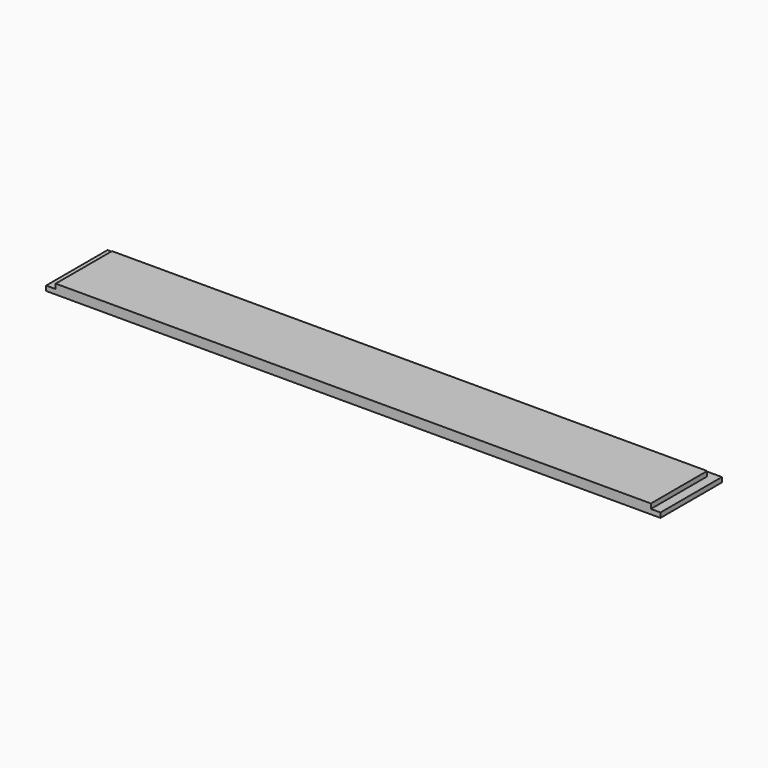
from build123d import *

# Parameters (mm, degrees)
F0_W     = 1219.2
F0_H     = 152.4
F1_DEPTH = 19.05
F3_DEPTH = 9.525


with BuildPart() as f1:
    # F0 (on Top) → F1 (new body)
    with BuildSketch(Plane.XY):
        with Locations((0, -76.2)):
            Rectangle(F0_W, F0_H)
    extrude(amount=F1_DEPTH)

    # F2 (on face) → F3 (cut)
    with BuildSketch(Plane.XY.offset(19.05)):
        Polygon((-609.6, 0), (-609.6, -152.4), (-590.55, -152.4), (-590.55, -12.7), (590.55, -12.7), (590.55, -152.4), (609.6, -152.4), (609.6, 0), align=None)
    extrude(amount=-F3_DEPTH, mode=Mode.SUBTRACT)


solid = f1.part
